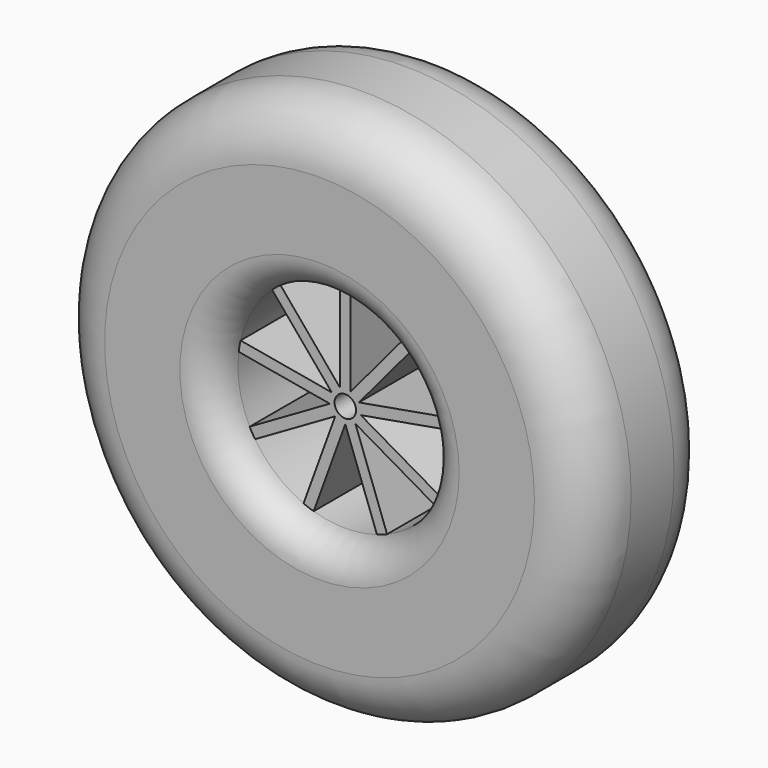
from build123d import *

# Parameters (mm, degrees)
F0_R     = 25
F0_R_2   = 10
F1_DEPTH = 15
F2_R     = 5
F3_R     = 3
F4_R     = 5
F5_R     = 3
F6_R     = 1
F7_DEPTH = 12
F8_DEPTH = 1


with BuildPart() as f1:
    # F0 (on Front) → F1 (new body)
    with BuildSketch(Plane.XZ):
        Circle(F0_R)
        Circle(F0_R_2, mode=Mode.SUBTRACT)
    extrude(amount=F1_DEPTH)

    # F2
    f2_edges = [f1.edges().sort_by_distance(p)[0] for p in [
        (-25, -15, 0),
    ]]
    fillet(f2_edges, radius=F2_R)

    # F3
    f3_edges = [f1.edges().sort_by_distance(p)[0] for p in [
        (-10, -15, 0),
    ]]
    fillet(f3_edges, radius=F3_R)

    # F4
    f4_edges = [f1.edges().sort_by_distance(p)[0] for p in [
        (-25, 0, 0),
    ]]
    fillet(f4_edges, radius=F4_R)

    # F5
    f5_edges = [f1.edges().sort_by_distance(p)[0] for p in [
        (-10, 0, 0),
    ]]
    fillet(f5_edges, radius=F5_R)

    # F6 (on Front) → F7 (join)
    with BuildSketch(Plane.XZ):
        with BuildLine():
            Line((-0.5, 9.9874921777), (-0.5, 1.3737387097))
            Line((-0.5, 1.3737387097), (-6.0368140021, 7.9722566883))
            ThreePointArc((-6.0368140021, 7.9722566883), (-6.4278760969, 7.6604444312), (-6.8028584452, 7.3294690786))
            Line((-6.8028584452, 7.3294690786), (-1.2660444431, 0.7309511))
            Line((-1.2660444431, 0.7309511), (-9.7489356409, 2.2267136926))
            ThreePointArc((-9.7489356409, 2.2267136926), (-9.8480775301, 1.7364817767), (-9.9225838186, 1.2419059396))
            Line((-9.9225838186, 1.2419059396), (-1.4396926208, -0.253856653))
            Line((-1.4396926208, -0.253856653), (-8.899421946, -4.560733387))
            ThreePointArc((-8.899421946, -4.560733387), (-8.6602540378, -5), (-8.399421946, -5.4267587908))
            Line((-8.399421946, -5.4267587908), (-0.9396926208, -1.1198820568))
            Line((-0.9396926208, -1.1198820568), (-3.8857698165, -9.2141626279))
            ThreePointArc((-3.8857698165, -9.2141626279), (-3.4202014333, -9.3969262079), (-2.9460771957, -9.5561827712))
            Line((-2.9460771957, -9.5561827712), (0, -1.4619022001))
            Line((0, -1.4619022001), (2.9460771957, -9.5561827712))
            ThreePointArc((2.9460771957, -9.5561827712), (3.4202014333, -9.3969262079), (3.8857698165, -9.2141626279))
            Line((3.8857698165, -9.2141626279), (0.9396926208, -1.1198820568))
            Line((0.9396926208, -1.1198820568), (8.399421946, -5.4267587908))
            ThreePointArc((8.399421946, -5.4267587908), (8.6602540378, -5), (8.899421946, -4.560733387))
            Line((8.899421946, -4.560733387), (1.4396926208, -0.253856653))
            Line((1.4396926208, -0.253856653), (9.9225838186, 1.2419059396))
            ThreePointArc((9.9225838186, 1.2419059396), (9.8480775301, 1.7364817767), (9.7489356409, 2.2267136926))
            Line((9.7489356409, 2.2267136926), (1.2660444431, 0.7309511))
            Line((1.2660444431, 0.7309511), (6.8028584452, 7.3294690786))
            ThreePointArc((6.8028584452, 7.3294690786), (6.4278760969, 7.6604444312), (6.0368140021, 7.9722566883))
            Line((6.0368140021, 7.9722566883), (0.5, 1.3737387097))
            Line((0.5, 1.3737387097), (0.5, 9.9874921777))
            ThreePointArc((0.5, 9.9874921777), (0, 10), (-0.5, 9.9874921777))
        make_face()
        Circle(F6_R, mode=Mode.SUBTRACT)
    extrude(amount=F7_DEPTH)

    # F6 (on Front) → F8 (cut)
    with BuildSketch(Plane.XZ):
        with BuildLine():
            Line((-0.5, 9.9874921777), (-0.5, 1.3737387097))
            Line((-0.5, 1.3737387097), (-6.0368140021, 7.9722566883))
            ThreePointArc((-6.0368140021, 7.9722566883), (-6.4278760969, 7.6604444312), (-6.8028584452, 7.3294690786))
            Line((-6.8028584452, 7.3294690786), (-1.2660444431, 0.7309511))
            Line((-1.2660444431, 0.7309511), (-9.7489356409, 2.2267136926))
            ThreePointArc((-9.7489356409, 2.2267136926), (-9.8480775301, 1.7364817767), (-9.9225838186, 1.2419059396))
            Line((-9.9225838186, 1.2419059396), (-1.4396926208, -0.253856653))
            Line((-1.4396926208, -0.253856653), (-8.899421946, -4.560733387))
            ThreePointArc((-8.899421946, -4.560733387), (-8.6602540378, -5), (-8.399421946, -5.4267587908))
            Line((-8.399421946, -5.4267587908), (-0.9396926208, -1.1198820568))
            Line((-0.9396926208, -1.1198820568), (-3.8857698165, -9.2141626279))
            ThreePointArc((-3.8857698165, -9.2141626279), (-3.4202014333, -9.3969262079), (-2.9460771957, -9.5561827712))
            Line((-2.9460771957, -9.5561827712), (0, -1.4619022001))
            Line((0, -1.4619022001), (2.9460771957, -9.5561827712))
            ThreePointArc((2.9460771957, -9.5561827712), (3.4202014333, -9.3969262079), (3.8857698165, -9.2141626279))
            Line((3.8857698165, -9.2141626279), (0.9396926208, -1.1198820568))
            Line((0.9396926208, -1.1198820568), (8.399421946, -5.4267587908))
            ThreePointArc((8.399421946, -5.4267587908), (8.6602540378, -5), (8.899421946, -4.560733387))
            Line((8.899421946, -4.560733387), (1.4396926208, -0.253856653))
            Line((1.4396926208, -0.253856653), (9.9225838186, 1.2419059396))
            ThreePointArc((9.9225838186, 1.2419059396), (9.8480775301, 1.7364817767), (9.7489356409, 2.2267136926))
            Line((9.7489356409, 2.2267136926), (1.2660444431, 0.7309511))
            Line((1.2660444431, 0.7309511), (6.8028584452, 7.3294690786))
            ThreePointArc((6.8028584452, 7.3294690786), (6.4278760969, 7.6604444312), (6.0368140021, 7.9722566883))
            Line((6.0368140021, 7.9722566883), (0.5, 1.3737387097))
            Line((0.5, 1.3737387097), (0.5, 9.9874921777))
            ThreePointArc((0.5, 9.9874921777), (0, 10), (-0.5, 9.9874921777))
        make_face()
        Circle(F6_R, mode=Mode.SUBTRACT)
    extrude(amount=F8_DEPTH, mode=Mode.SUBTRACT)


solid = f1.part
